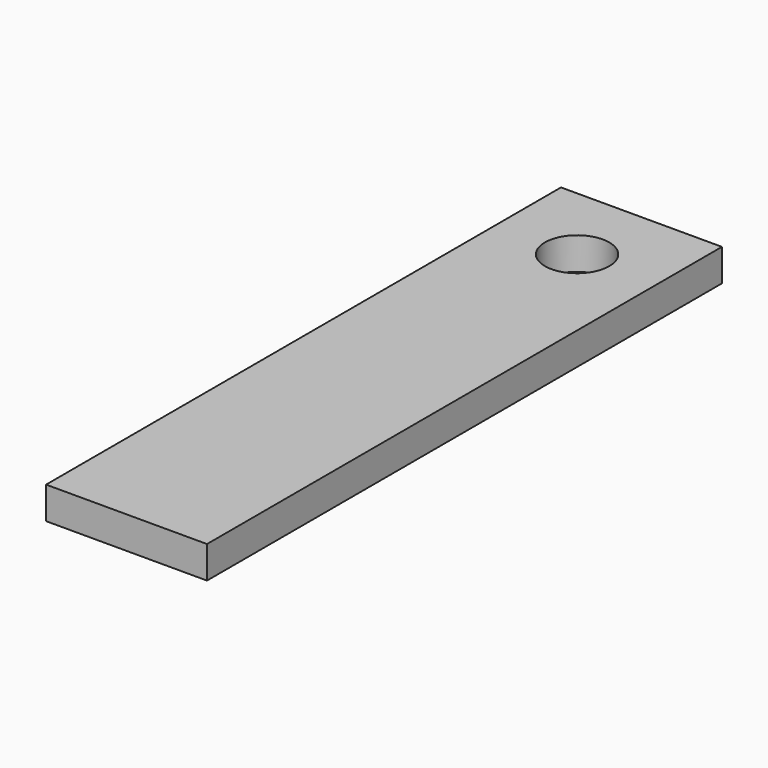
from build123d import *

# Parameters (mm, degrees)
SKETCH_W  = 10
SKETCH_H  = 40
SKETCH_R  = 2
PAD_DEPTH = 2


with BuildPart() as part:
    # Sketch → Pad (new body)
    with BuildSketch(Plane.XY):
        with Locations((5, 20)):
            Rectangle(SKETCH_W, SKETCH_H)
        with Locations((5, 35)):
            Circle(SKETCH_R, mode=Mode.SUBTRACT)
    extrude(amount=PAD_DEPTH)


solid = part.part
